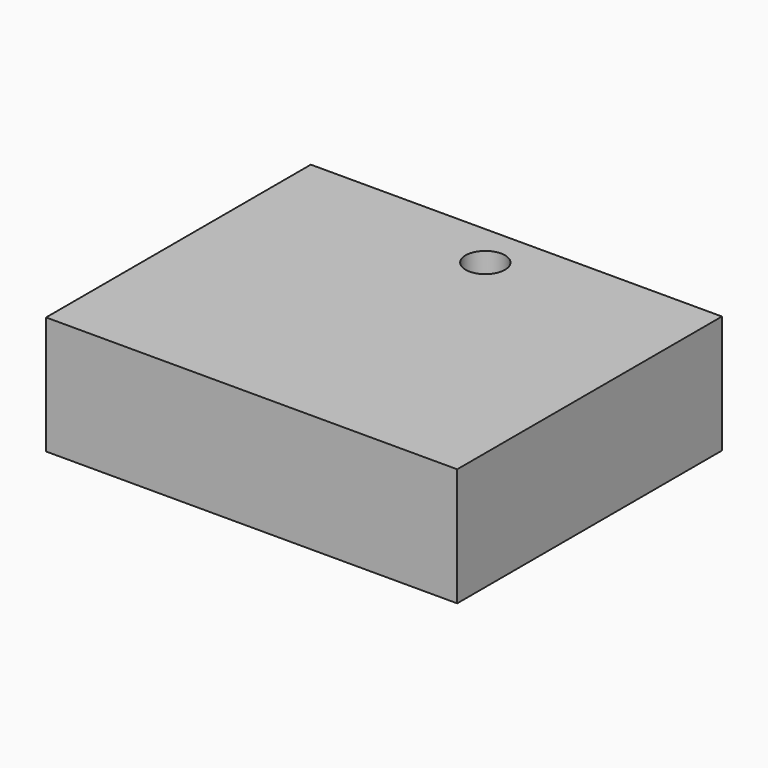
from build123d import *

# Parameters (mm, degrees)
F0_W     = 62.6941770315
F0_H     = 50.461165607
F1_DEPTH = 18
F3_D     = 6
F3_DEPTH = 12
F3_TIP   = 1.8025818571


with BuildPart() as f1:
    # F0 (on Top) → F1 (new body)
    with BuildSketch(Plane.XY):
        with Locations((-0.6553381681, -1.5291254967)):
            Rectangle(F0_W, F0_H)
    extrude(amount=F1_DEPTH)

    # F3
    with Locations(Plane.XY.offset(18)):
        with Locations((0, 16.9683266431)):
            Hole(F3_D / 2, depth=F3_DEPTH)
            with Locations((0, 0, -(F3_DEPTH + F3_TIP / 2))):  # 118° drill point
                Cone(0, F3_D / 2, F3_TIP, mode=Mode.SUBTRACT)


solid = f1.part
